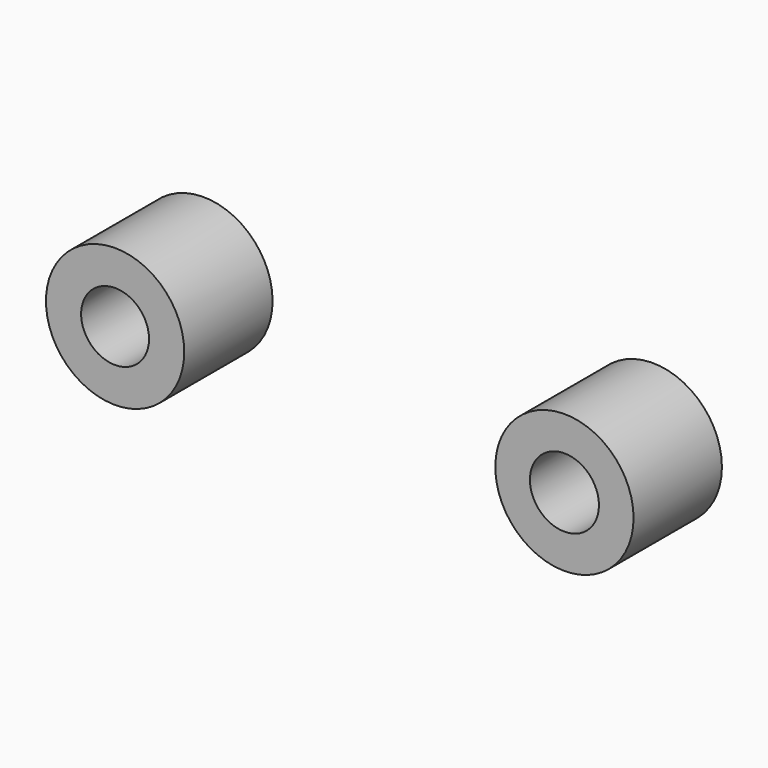
from build123d import *

# Parameters (mm, degrees)
F0_R     = 9.389371
F0_R_2   = 4.611608
F1_R     = 9.389369
F1_R_2   = 4.687457
F2_DEPTH = 15


with BuildPart() as f2:
    # F0 (on Front) + F1 (on Front) → F2 (new body)
    with BuildSketch(Plane.XZ):
        with Locations((-42.632673, -66.670522)):
            Circle(F0_R)
        with Locations((-42.632673, -66.670522)):
            Circle(F0_R_2, mode=Mode.SUBTRACT)
    with BuildSketch(Plane.XZ):
        with Locations((18.392781, -66.670522)):
            Circle(F1_R)
        with Locations((18.392781, -66.670522)):
            Circle(F1_R_2, mode=Mode.SUBTRACT)
    extrude(amount=F2_DEPTH)


solid = f2.part
